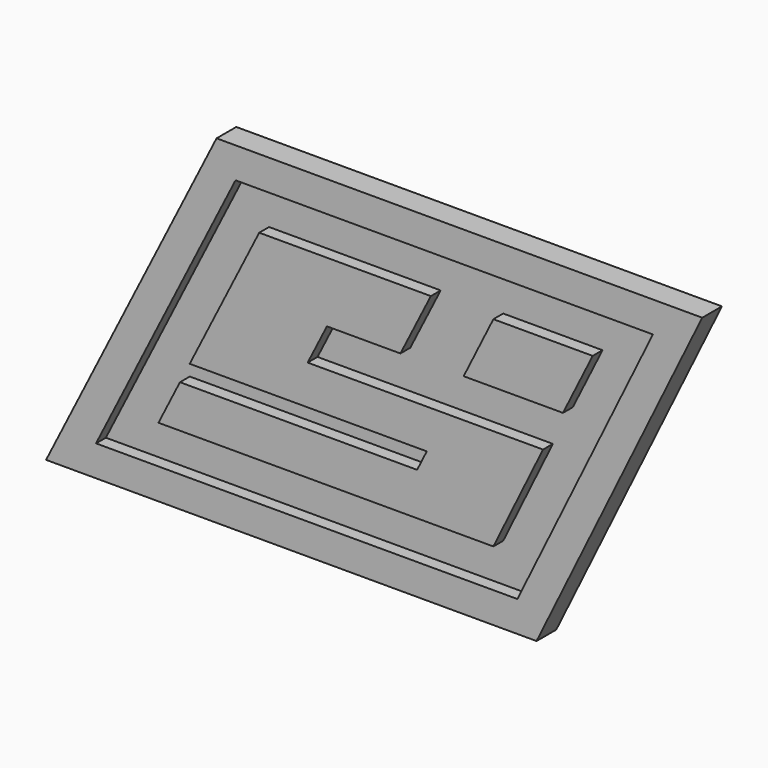
from build123d import *

# Parameters (mm, degrees)
F3_DEPTH = 2.032
F4_DEPTH = 1.016
F5_DEPTH = 2.032
F6_SCALE = 0.5


with BuildPart() as f3:
    # F0 (on Front) → F3 (new body)
    with BuildSketch(Plane.XZ):
        Polygon((1.7399819335, 32.9988971353), (-12.4273560941, 32.9988971353), (-18.1648561832, 21.6064513681), (1.4037427613, 21.6064513681), (0.6089702947, 20.0053038526), (-18.9712312321, 20.0053038526), (-20.7453668118, 16.4825599641), (6.9015445188, 16.4825599641), (11.0007077456, 24.8590362167), (-8.4278472578, 24.8590362167), (-6.8397070281, 28.0124656121), (-0.7713007088, 28.0124656121), align=None)
    extrude(amount=F3_DEPTH)


with BuildPart() as f3b:
    # F0 (on Front) → F3, piece 2 (new body)
    with BuildSketch(Plane.XZ):
        Polygon((15.0998709723, 32.9988971353), (6.9015445188, 32.9988971353), (4.449058262, 28.0581217034), (12.6473847156, 28.0581217034), align=None)
    extrude(amount=F3_DEPTH)


with BuildPart() as f4:
    # F1 (on Front) → F4 (new body)
    with BuildSketch(Plane.XZ):
        Polygon((-14.3832698171, 36.1738971353), (-25.8992879083, 13.3075599641), (8.8825950149, 13.3075599641), (20.0726044695, 36.1738971353), align=None)
    extrude(amount=F4_DEPTH)

    # F2 (on Front) → F5 (join)
    with BuildSketch(Plane.XZ):
        Polygon((-15.9480007955, 38.7138971353), (-30.0224247855, 10.7675599641), (10.4674354118, 10.7675599641), (24.1434244793, 38.7138971353), align=None)
        Polygon((20.0726044695, 36.1738971353), (8.8825950149, 13.3075599641), (-25.8992879083, 13.3075599641), (-14.3832698171, 36.1738971353), align=None, mode=Mode.SUBTRACT)
    extrude(amount=F5_DEPTH)


with BuildPart() as f4_1:
    # F6: moved
    add(f4.part.scale(F6_SCALE).moved(Location((-3.4198535141, 0, 14.0062328061))))


with BuildPart() as f3_1:
    # F6: moved
    add(f3.part.scale(F6_SCALE).moved(Location((-3.4198535141, 0, 14.0062328061))))


with BuildPart() as f3b_1:
    # F6: moved
    add(f3b.part.scale(F6_SCALE).moved(Location((-3.4198535141, 0, 14.0062328061))))


solid = Compound([f4_1.part, f3_1.part, f3b_1.part])
